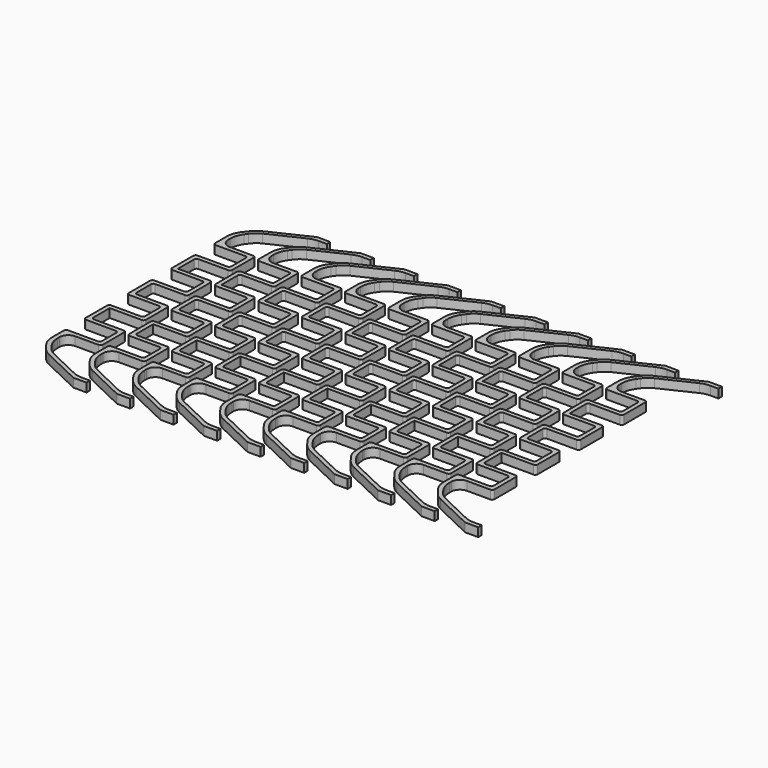
from build123d import *

# Parameters (mm, degrees)
F1_DEPTH = 2.54


with BuildPart() as f1:
    # F0 (on Top) → F1 (new body)
    with BuildSketch(Plane.XY):
        with BuildLine():
            Line((3.81, 44.45), (0, 44.45))
            Line((0, 44.45), (-11.589203, 38.93695))
            ThreePointArc((-11.589203, 38.93695), (-12.840969, 38.150986), (-13.877123, 37.096925))
            Line((-13.877123, 37.096925), (-14.964918, 35.69585))
            ThreePointArc((-14.964918, 35.69585), (-15.956365, 33.85986), (-16.299186, 31.801633))
            Line((-16.299186, 31.801633), (-16.299186, 27.595353))
            ThreePointArc((-16.299186, 27.595353), (-16.102551, 27.120635), (-15.627833, 26.924))
            Line((-15.627833, 26.924), (-6.925678, 26.924))
            ThreePointArc((-6.925678, 26.924), (-6.450959, 26.727365), (-6.254325, 26.252647))
            Line((-6.254325, 26.252647), (-6.254325, 20.991353))
            ThreePointArc((-6.254325, 20.991353), (-6.450959, 20.516635), (-6.925678, 20.32))
            Line((-6.925678, 20.32), (-15.627833, 20.32))
            ThreePointArc((-15.627833, 20.32), (-16.102551, 20.123365), (-16.299186, 19.648647))
            Line((-16.299186, 19.648647), (-16.299186, 11.847353))
            ThreePointArc((-16.299186, 11.847353), (-16.102551, 11.372635), (-15.627833, 11.176))
            Line((-15.627833, 11.176), (-6.925678, 11.176))
            ThreePointArc((-6.925678, 11.176), (-6.450959, 10.979365), (-6.254325, 10.504647))
            Line((-6.254325, 10.504647), (-6.254325, 5.243353))
            ThreePointArc((-6.254325, 5.243353), (-6.450959, 4.768635), (-6.925678, 4.572))
            Line((-6.925678, 4.572), (-15.627833, 4.572))
            ThreePointArc((-15.627833, 4.572), (-16.102551, 4.375365), (-16.299186, 3.900647))
            Line((-16.299186, 3.900647), (-16.299186, 0))
            Line((-16.299186, 0), (-16.299186, -3.900647))
            ThreePointArc((-16.299186, -3.900647), (-16.102551, -4.375365), (-15.627833, -4.572))
            Line((-15.627833, -4.572), (-6.925678, -4.572))
            ThreePointArc((-6.925678, -4.572), (-6.450959, -4.768635), (-6.254325, -5.243353))
            Line((-6.254325, -5.243353), (-6.254325, -10.504647))
            ThreePointArc((-6.254325, -10.504647), (-6.450959, -10.979365), (-6.925678, -11.176))
            Line((-6.925678, -11.176), (-15.627833, -11.176))
            ThreePointArc((-15.627833, -11.176), (-16.102551, -11.372635), (-16.299186, -11.847353))
            Line((-16.299186, -11.847353), (-16.299186, -19.648647))
            ThreePointArc((-16.299186, -19.648647), (-16.102551, -20.123365), (-15.627833, -20.32))
            Line((-15.627833, -20.32), (-6.925678, -20.32))
            ThreePointArc((-6.925678, -20.32), (-6.450959, -20.516635), (-6.254325, -20.991353))
            Line((-6.254325, -20.991353), (-6.254325, -26.252647))
            ThreePointArc((-6.254325, -26.252647), (-6.450959, -26.727365), (-6.925678, -26.924))
            Line((-6.925678, -26.924), (-15.627833, -26.924))
            ThreePointArc((-15.627833, -26.924), (-16.102551, -27.120635), (-16.299186, -27.595353))
            Line((-16.299186, -27.595353), (-16.299186, -31.801633))
            ThreePointArc((-16.299186, -31.801633), (-15.956365, -33.85986), (-14.964918, -35.69585))
            Line((-14.964918, -35.69585), (-13.877123, -37.096925))
            ThreePointArc((-13.877123, -37.096925), (-12.840969, -38.150986), (-11.589203, -38.93695))
            Line((-11.589203, -38.93695), (0, -44.45))
            Line((0, -44.45), (3.81, -44.45))
            Line((3.81, -44.45), (3.81, -43.18))
            Line((3.81, -43.18), (1.433404, -43.18))
            ThreePointArc((1.433404, -43.18), (0.035181, -43.024148), (-1.294408, -42.564243))
            Line((-1.294408, -42.564243), (-10.771085, -38.056134))
            ThreePointArc((-10.771085, -38.056134), (-12.126199, -37.185245), (-13.218574, -36.001396))
            Line((-13.218574, -36.001396), (-13.854487, -35.106971))
            ThreePointArc((-13.854487, -35.106971), (-14.728387, -33.358701), (-15.029186, -31.427466))
            Line((-15.029186, -31.427466), (-15.029186, -30.734))
            ThreePointArc((-15.029186, -30.734), (-14.285237, -28.937949), (-12.489186, -28.194))
            Line((-12.489186, -28.194), (-5.655678, -28.194))
            ThreePointArc((-5.655678, -28.194), (-5.180959, -27.997365), (-4.984325, -27.522647))
            Line((-4.984325, -27.522647), (-4.984325, -19.721353))
            ThreePointArc((-4.984325, -19.721353), (-5.180959, -19.246635), (-5.655678, -19.05))
            Line((-5.655678, -19.05), (-14.357833, -19.05))
            ThreePointArc((-14.357833, -19.05), (-14.832551, -18.853365), (-15.029186, -18.378647))
            Line((-15.029186, -18.378647), (-15.029186, -12.446))
            Line((-15.029186, -12.446), (-5.655678, -12.446))
            ThreePointArc((-5.655678, -12.446), (-5.180959, -12.249365), (-4.984325, -11.774647))
            Line((-4.984325, -11.774647), (-4.984325, -3.973353))
            ThreePointArc((-4.984325, -3.973353), (-5.180959, -3.498635), (-5.655678, -3.302))
            Line((-5.655678, -3.302), (-14.357833, -3.302))
            ThreePointArc((-14.357833, -3.302), (-14.832551, -3.105365), (-15.029186, -2.630647))
            Line((-15.029186, -2.630647), (-15.029186, 0))
            Line((-15.029186, 0), (-15.029186, 2.630647))
            ThreePointArc((-15.029186, 2.630647), (-14.832551, 3.105365), (-14.357833, 3.302))
            Line((-14.357833, 3.302), (-5.655678, 3.302))
            ThreePointArc((-5.655678, 3.302), (-5.180959, 3.498635), (-4.984325, 3.973353))
            Line((-4.984325, 3.973353), (-4.984325, 11.774647))
            ThreePointArc((-4.984325, 11.774647), (-5.180959, 12.249365), (-5.655678, 12.446))
            Line((-5.655678, 12.446), (-15.029186, 12.446))
            Line((-15.029186, 12.446), (-15.029186, 18.378647))
            ThreePointArc((-15.029186, 18.378647), (-14.832551, 18.853365), (-14.357833, 19.05))
            Line((-14.357833, 19.05), (-5.655678, 19.05))
            ThreePointArc((-5.655678, 19.05), (-5.180959, 19.246635), (-4.984325, 19.721353))
            Line((-4.984325, 19.721353), (-4.984325, 27.522647))
            ThreePointArc((-4.984325, 27.522647), (-5.180959, 27.997365), (-5.655678, 28.194))
            Line((-5.655678, 28.194), (-12.489186, 28.194))
            ThreePointArc((-12.489186, 28.194), (-14.285237, 28.937949), (-15.029186, 30.734))
            Line((-15.029186, 30.734), (-15.029186, 31.427466))
            ThreePointArc((-15.029186, 31.427466), (-14.728387, 33.358701), (-13.854487, 35.106971))
            Line((-13.854487, 35.106971), (-13.218574, 36.001396))
            ThreePointArc((-13.218574, 36.001396), (-12.126199, 37.185245), (-10.771085, 38.056134))
            Line((-10.771085, 38.056134), (-1.294408, 42.564243))
            ThreePointArc((-1.294408, 42.564243), (0.035181, 43.024148), (1.433404, 43.18))
            Line((1.433404, 43.18), (3.81, 43.18))
            Line((3.81, 43.18), (3.81, 44.45))
        make_face()
        with BuildLine():
            Line((-2.329186, -18.378647), (-2.329186, -12.446))
            Line((-2.329186, -12.446), (7.044322, -12.446))
            ThreePointArc((7.044322, -12.446), (7.519041, -12.249365), (7.715675, -11.774647))
            Line((7.715675, -11.774647), (7.715675, -3.973353))
            ThreePointArc((7.715675, -3.973353), (7.519041, -3.498635), (7.044322, -3.302))
            Line((7.044322, -3.302), (-1.657833, -3.302))
            ThreePointArc((-1.657833, -3.302), (-2.132551, -3.105365), (-2.329186, -2.630647))
            Line((-2.329186, -2.630647), (-2.329186, 0))
            Line((-2.329186, 0), (-2.329186, 2.630647))
            ThreePointArc((-2.329186, 2.630647), (-2.132551, 3.105365), (-1.657833, 3.302))
            Line((-1.657833, 3.302), (7.044322, 3.302))
            ThreePointArc((7.044322, 3.302), (7.519041, 3.498635), (7.715675, 3.973353))
            Line((7.715675, 3.973353), (7.715675, 11.774647))
            ThreePointArc((7.715675, 11.774647), (7.519041, 12.249365), (7.044322, 12.446))
            Line((7.044322, 12.446), (-2.329186, 12.446))
            Line((-2.329186, 12.446), (-2.329186, 18.378647))
            ThreePointArc((-2.329186, 18.378647), (-2.132551, 18.853365), (-1.657833, 19.05))
            Line((-1.657833, 19.05), (7.044322, 19.05))
            ThreePointArc((7.044322, 19.05), (7.519041, 19.246635), (7.715675, 19.721353))
            Line((7.715675, 19.721353), (7.715675, 27.522647))
            ThreePointArc((7.715675, 27.522647), (7.519041, 27.997365), (7.044322, 28.194))
            Line((7.044322, 28.194), (0.210814, 28.194))
            ThreePointArc((0.210814, 28.194), (-1.585237, 28.937949), (-2.329186, 30.734))
            Line((-2.329186, 30.734), (-2.329186, 31.427466))
            ThreePointArc((-2.329186, 31.427466), (-2.028387, 33.358701), (-1.154487, 35.106971))
            Line((-1.154487, 35.106971), (-0.518574, 36.001396))
            ThreePointArc((-0.518574, 36.001396), (0.573801, 37.185245), (1.928915, 38.056134))
            Line((1.928915, 38.056134), (11.405592, 42.564243))
            ThreePointArc((11.405592, 42.564243), (12.735181, 43.024148), (14.133404, 43.18))
            Line((14.133404, 43.18), (16.51, 43.18))
            Line((16.51, 43.18), (16.51, 44.45))
            Line((16.51, 44.45), (12.7, 44.45))
            Line((12.7, 44.45), (1.110797, 38.93695))
            ThreePointArc((1.110797, 38.93695), (-0.140969, 38.150986), (-1.177123, 37.096925))
            Line((-1.177123, 37.096925), (-2.264918, 35.69585))
            ThreePointArc((-2.264918, 35.69585), (-3.256365, 33.85986), (-3.599186, 31.801633))
            Line((-3.599186, 31.801633), (-3.599186, 27.595353))
            ThreePointArc((-3.599186, 27.595353), (-3.402551, 27.120635), (-2.927833, 26.924))
            Line((-2.927833, 26.924), (5.774322, 26.924))
            ThreePointArc((5.774322, 26.924), (6.249041, 26.727365), (6.445675, 26.252647))
            Line((6.445675, 26.252647), (6.445675, 20.991353))
            ThreePointArc((6.445675, 20.991353), (6.249041, 20.516635), (5.774322, 20.32))
            Line((5.774322, 20.32), (-2.927833, 20.32))
            ThreePointArc((-2.927833, 20.32), (-3.402551, 20.123365), (-3.599186, 19.648647))
            Line((-3.599186, 19.648647), (-3.599186, 11.847353))
            ThreePointArc((-3.599186, 11.847353), (-3.402551, 11.372635), (-2.927833, 11.176))
            Line((-2.927833, 11.176), (5.774322, 11.176))
            ThreePointArc((5.774322, 11.176), (6.249041, 10.979365), (6.445675, 10.504647))
            Line((6.445675, 10.504647), (6.445675, 5.243353))
            ThreePointArc((6.445675, 5.243353), (6.249041, 4.768635), (5.774322, 4.572))
            Line((5.774322, 4.572), (-2.927833, 4.572))
            ThreePointArc((-2.927833, 4.572), (-3.402551, 4.375365), (-3.599186, 3.900647))
            Line((-3.599186, 3.900647), (-3.599186, 0))
            Line((-3.599186, 0), (-3.599186, -3.900647))
            ThreePointArc((-3.599186, -3.900647), (-3.402551, -4.375365), (-2.927833, -4.572))
            Line((-2.927833, -4.572), (5.774322, -4.572))
            ThreePointArc((5.774322, -4.572), (6.249041, -4.768635), (6.445675, -5.243353))
            Line((6.445675, -5.243353), (6.445675, -10.504647))
            ThreePointArc((6.445675, -10.504647), (6.249041, -10.979365), (5.774322, -11.176))
            Line((5.774322, -11.176), (-2.927833, -11.176))
            ThreePointArc((-2.927833, -11.176), (-3.402551, -11.372635), (-3.599186, -11.847353))
            Line((-3.599186, -11.847353), (-3.599186, -19.648647))
            ThreePointArc((-3.599186, -19.648647), (-3.402551, -20.123365), (-2.927833, -20.32))
            Line((-2.927833, -20.32), (5.774322, -20.32))
            ThreePointArc((5.774322, -20.32), (6.249041, -20.516635), (6.445675, -20.991353))
            Line((6.445675, -20.991353), (6.445675, -26.252647))
            ThreePointArc((6.445675, -26.252647), (6.249041, -26.727365), (5.774322, -26.924))
            Line((5.774322, -26.924), (-2.927833, -26.924))
            ThreePointArc((-2.927833, -26.924), (-3.402551, -27.120635), (-3.599186, -27.595353))
            Line((-3.599186, -27.595353), (-3.599186, -31.801633))
            ThreePointArc((-3.599186, -31.801633), (-3.256365, -33.85986), (-2.264918, -35.69585))
            Line((-2.264918, -35.69585), (-1.177123, -37.096925))
            ThreePointArc((-1.177123, -37.096925), (-0.140969, -38.150986), (1.110797, -38.93695))
            Line((1.110797, -38.93695), (12.7, -44.45))
            Line((12.7, -44.45), (16.51, -44.45))
            Line((16.51, -44.45), (16.51, -43.18))
            Line((16.51, -43.18), (14.133404, -43.18))
            ThreePointArc((14.133404, -43.18), (12.735181, -43.024148), (11.405592, -42.564243))
            Line((11.405592, -42.564243), (1.928915, -38.056134))
            ThreePointArc((1.928915, -38.056134), (0.573801, -37.185245), (-0.518574, -36.001396))
            Line((-0.518574, -36.001396), (-1.154487, -35.106971))
            ThreePointArc((-1.154487, -35.106971), (-2.028387, -33.358701), (-2.329186, -31.427466))
            Line((-2.329186, -31.427466), (-2.329186, -30.734))
            ThreePointArc((-2.329186, -30.734), (-1.585237, -28.937949), (0.210814, -28.194))
            Line((0.210814, -28.194), (7.044322, -28.194))
            ThreePointArc((7.044322, -28.194), (7.519041, -27.997365), (7.715675, -27.522647))
            Line((7.715675, -27.522647), (7.715675, -19.721353))
            ThreePointArc((7.715675, -19.721353), (7.519041, -19.246635), (7.044322, -19.05))
            Line((7.044322, -19.05), (-1.657833, -19.05))
            ThreePointArc((-1.657833, -19.05), (-2.132551, -18.853365), (-2.329186, -18.378647))
        make_face()
        with BuildLine():
            Line((10.370814, -18.378647), (10.370814, -12.446))
            Line((10.370814, -12.446), (19.744322, -12.446))
            ThreePointArc((19.744322, -12.446), (20.219041, -12.249365), (20.415675, -11.774647))
            Line((20.415675, -11.774647), (20.415675, -3.973353))
            ThreePointArc((20.415675, -3.973353), (20.219041, -3.498635), (19.744322, -3.302))
            Line((19.744322, -3.302), (11.042167, -3.302))
            ThreePointArc((11.042167, -3.302), (10.567449, -3.105365), (10.370814, -2.630647))
            Line((10.370814, -2.630647), (10.370814, 0))
            Line((10.370814, 0), (10.370814, 2.630647))
            ThreePointArc((10.370814, 2.630647), (10.567449, 3.105365), (11.042167, 3.302))
            Line((11.042167, 3.302), (19.744322, 3.302))
            ThreePointArc((19.744322, 3.302), (20.219041, 3.498635), (20.415675, 3.973353))
            Line((20.415675, 3.973353), (20.415675, 11.774647))
            ThreePointArc((20.415675, 11.774647), (20.219041, 12.249365), (19.744322, 12.446))
            Line((19.744322, 12.446), (10.370814, 12.446))
            Line((10.370814, 12.446), (10.370814, 18.378647))
            ThreePointArc((10.370814, 18.378647), (10.567449, 18.853365), (11.042167, 19.05))
            Line((11.042167, 19.05), (19.744322, 19.05))
            ThreePointArc((19.744322, 19.05), (20.219041, 19.246635), (20.415675, 19.721353))
            Line((20.415675, 19.721353), (20.415675, 27.522647))
            ThreePointArc((20.415675, 27.522647), (20.219041, 27.997365), (19.744322, 28.194))
            Line((19.744322, 28.194), (12.910814, 28.194))
            ThreePointArc((12.910814, 28.194), (11.114763, 28.937949), (10.370814, 30.734))
            Line((10.370814, 30.734), (10.370814, 31.427466))
            ThreePointArc((10.370814, 31.427466), (10.671613, 33.358701), (11.545513, 35.106971))
            Line((11.545513, 35.106971), (12.181426, 36.001396))
            ThreePointArc((12.181426, 36.001396), (13.273801, 37.185245), (14.628915, 38.056134))
            Line((14.628915, 38.056134), (24.105592, 42.564243))
            ThreePointArc((24.105592, 42.564243), (25.435181, 43.024148), (26.833404, 43.18))
            Line((26.833404, 43.18), (29.21, 43.18))
            Line((29.21, 43.18), (29.21, 44.45))
            Line((29.21, 44.45), (25.4, 44.45))
            Line((25.4, 44.45), (13.810797, 38.93695))
            ThreePointArc((13.810797, 38.93695), (12.559031, 38.150986), (11.522877, 37.096925))
            Line((11.522877, 37.096925), (10.435082, 35.69585))
            ThreePointArc((10.435082, 35.69585), (9.443635, 33.85986), (9.100814, 31.801633))
            Line((9.100814, 31.801633), (9.100814, 27.595353))
            ThreePointArc((9.100814, 27.595353), (9.297449, 27.120635), (9.772167, 26.924))
            Line((9.772167, 26.924), (18.474322, 26.924))
            ThreePointArc((18.474322, 26.924), (18.949041, 26.727365), (19.145675, 26.252647))
            Line((19.145675, 26.252647), (19.145675, 20.991353))
            ThreePointArc((19.145675, 20.991353), (18.949041, 20.516635), (18.474322, 20.32))
            Line((18.474322, 20.32), (9.772167, 20.32))
            ThreePointArc((9.772167, 20.32), (9.297449, 20.123365), (9.100814, 19.648647))
            Line((9.100814, 19.648647), (9.100814, 11.847353))
            ThreePointArc((9.100814, 11.847353), (9.297449, 11.372635), (9.772167, 11.176))
            Line((9.772167, 11.176), (18.474322, 11.176))
            ThreePointArc((18.474322, 11.176), (18.949041, 10.979365), (19.145675, 10.504647))
            Line((19.145675, 10.504647), (19.145675, 5.243353))
            ThreePointArc((19.145675, 5.243353), (18.949041, 4.768635), (18.474322, 4.572))
            Line((18.474322, 4.572), (9.772167, 4.572))
            ThreePointArc((9.772167, 4.572), (9.297449, 4.375365), (9.100814, 3.900647))
            Line((9.100814, 3.900647), (9.100814, 0))
            Line((9.100814, 0), (9.100814, -3.900647))
            ThreePointArc((9.100814, -3.900647), (9.297449, -4.375365), (9.772167, -4.572))
            Line((9.772167, -4.572), (18.474322, -4.572))
            ThreePointArc((18.474322, -4.572), (18.949041, -4.768635), (19.145675, -5.243353))
            Line((19.145675, -5.243353), (19.145675, -10.504647))
            ThreePointArc((19.145675, -10.504647), (18.949041, -10.979365), (18.474322, -11.176))
            Line((18.474322, -11.176), (9.772167, -11.176))
            ThreePointArc((9.772167, -11.176), (9.297449, -11.372635), (9.100814, -11.847353))
            Line((9.100814, -11.847353), (9.100814, -19.648647))
            ThreePointArc((9.100814, -19.648647), (9.297449, -20.123365), (9.772167, -20.32))
            Line((9.772167, -20.32), (18.474322, -20.32))
            ThreePointArc((18.474322, -20.32), (18.949041, -20.516635), (19.145675, -20.991353))
            Line((19.145675, -20.991353), (19.145675, -26.252647))
            ThreePointArc((19.145675, -26.252647), (18.949041, -26.727365), (18.474322, -26.924))
            Line((18.474322, -26.924), (9.772167, -26.924))
            ThreePointArc((9.772167, -26.924), (9.297449, -27.120635), (9.100814, -27.595353))
            Line((9.100814, -27.595353), (9.100814, -31.801633))
            ThreePointArc((9.100814, -31.801633), (9.443635, -33.85986), (10.435082, -35.69585))
            Line((10.435082, -35.69585), (11.522877, -37.096925))
            ThreePointArc((11.522877, -37.096925), (12.559031, -38.150986), (13.810797, -38.93695))
            Line((13.810797, -38.93695), (25.4, -44.45))
            Line((25.4, -44.45), (29.21, -44.45))
            Line((29.21, -44.45), (29.21, -43.18))
            Line((29.21, -43.18), (26.833404, -43.18))
            ThreePointArc((26.833404, -43.18), (25.435181, -43.024148), (24.105592, -42.564243))
            Line((24.105592, -42.564243), (14.628915, -38.056134))
            ThreePointArc((14.628915, -38.056134), (13.273801, -37.185245), (12.181426, -36.001396))
            Line((12.181426, -36.001396), (11.545513, -35.106971))
            ThreePointArc((11.545513, -35.106971), (10.671613, -33.358701), (10.370814, -31.427466))
            Line((10.370814, -31.427466), (10.370814, -30.734))
            ThreePointArc((10.370814, -30.734), (11.114763, -28.937949), (12.910814, -28.194))
            Line((12.910814, -28.194), (19.744322, -28.194))
            ThreePointArc((19.744322, -28.194), (20.219041, -27.997365), (20.415675, -27.522647))
            Line((20.415675, -27.522647), (20.415675, -19.721353))
            ThreePointArc((20.415675, -19.721353), (20.219041, -19.246635), (19.744322, -19.05))
            Line((19.744322, -19.05), (11.042167, -19.05))
            ThreePointArc((11.042167, -19.05), (10.567449, -18.853365), (10.370814, -18.378647))
        make_face()
        with BuildLine():
            Line((23.070814, -18.378647), (23.070814, -12.446))
            Line((23.070814, -12.446), (32.444322, -12.446))
            ThreePointArc((32.444322, -12.446), (32.919041, -12.249365), (33.115675, -11.774647))
            Line((33.115675, -11.774647), (33.115675, -3.973353))
            ThreePointArc((33.115675, -3.973353), (32.919041, -3.498635), (32.444322, -3.302))
            Line((32.444322, -3.302), (23.742167, -3.302))
            ThreePointArc((23.742167, -3.302), (23.267449, -3.105365), (23.070814, -2.630647))
            Line((23.070814, -2.630647), (23.070814, 0))
            Line((23.070814, 0), (23.070814, 2.630647))
            ThreePointArc((23.070814, 2.630647), (23.267449, 3.105365), (23.742167, 3.302))
            Line((23.742167, 3.302), (32.444322, 3.302))
            ThreePointArc((32.444322, 3.302), (32.919041, 3.498635), (33.115675, 3.973353))
            Line((33.115675, 3.973353), (33.115675, 11.774647))
            ThreePointArc((33.115675, 11.774647), (32.919041, 12.249365), (32.444322, 12.446))
            Line((32.444322, 12.446), (23.070814, 12.446))
            Line((23.070814, 12.446), (23.070814, 18.378647))
            ThreePointArc((23.070814, 18.378647), (23.267449, 18.853365), (23.742167, 19.05))
            Line((23.742167, 19.05), (32.444322, 19.05))
            ThreePointArc((32.444322, 19.05), (32.919041, 19.246635), (33.115675, 19.721353))
            Line((33.115675, 19.721353), (33.115675, 27.522647))
            ThreePointArc((33.115675, 27.522647), (32.919041, 27.997365), (32.444322, 28.194))
            Line((32.444322, 28.194), (25.610814, 28.194))
            ThreePointArc((25.610814, 28.194), (23.814763, 28.937949), (23.070814, 30.734))
            Line((23.070814, 30.734), (23.070814, 31.427466))
            ThreePointArc((23.070814, 31.427466), (23.371613, 33.358701), (24.245513, 35.106971))
            Line((24.245513, 35.106971), (24.881426, 36.001396))
            ThreePointArc((24.881426, 36.001396), (25.973801, 37.185245), (27.328915, 38.056134))
            Line((27.328915, 38.056134), (36.805592, 42.564243))
            ThreePointArc((36.805592, 42.564243), (38.135181, 43.024148), (39.533404, 43.18))
            Line((39.533404, 43.18), (41.91, 43.18))
            Line((41.91, 43.18), (41.91, 44.45))
            Line((41.91, 44.45), (38.1, 44.45))
            Line((38.1, 44.45), (26.510797, 38.93695))
            ThreePointArc((26.510797, 38.93695), (25.259031, 38.150986), (24.222877, 37.096925))
            Line((24.222877, 37.096925), (23.135082, 35.69585))
            ThreePointArc((23.135082, 35.69585), (22.143635, 33.85986), (21.800814, 31.801633))
            Line((21.800814, 31.801633), (21.800814, 27.595353))
            ThreePointArc((21.800814, 27.595353), (21.997449, 27.120635), (22.472167, 26.924))
            Line((22.472167, 26.924), (31.174322, 26.924))
            ThreePointArc((31.174322, 26.924), (31.649041, 26.727365), (31.845675, 26.252647))
            Line((31.845675, 26.252647), (31.845675, 20.991353))
            ThreePointArc((31.845675, 20.991353), (31.649041, 20.516635), (31.174322, 20.32))
            Line((31.174322, 20.32), (22.472167, 20.32))
            ThreePointArc((22.472167, 20.32), (21.997449, 20.123365), (21.800814, 19.648647))
            Line((21.800814, 19.648647), (21.800814, 11.847353))
            ThreePointArc((21.800814, 11.847353), (21.997449, 11.372635), (22.472167, 11.176))
            Line((22.472167, 11.176), (31.174322, 11.176))
            ThreePointArc((31.174322, 11.176), (31.649041, 10.979365), (31.845675, 10.504647))
            Line((31.845675, 10.504647), (31.845675, 5.243353))
            ThreePointArc((31.845675, 5.243353), (31.649041, 4.768635), (31.174322, 4.572))
            Line((31.174322, 4.572), (22.472167, 4.572))
            ThreePointArc((22.472167, 4.572), (21.997449, 4.375365), (21.800814, 3.900647))
            Line((21.800814, 3.900647), (21.800814, 0))
            Line((21.800814, 0), (21.800814, -3.900647))
            ThreePointArc((21.800814, -3.900647), (21.997449, -4.375365), (22.472167, -4.572))
            Line((22.472167, -4.572), (31.174322, -4.572))
            ThreePointArc((31.174322, -4.572), (31.649041, -4.768635), (31.845675, -5.243353))
            Line((31.845675, -5.243353), (31.845675, -10.504647))
            ThreePointArc((31.845675, -10.504647), (31.649041, -10.979365), (31.174322, -11.176))
            Line((31.174322, -11.176), (22.472167, -11.176))
            ThreePointArc((22.472167, -11.176), (21.997449, -11.372635), (21.800814, -11.847353))
            Line((21.800814, -11.847353), (21.800814, -19.648647))
            ThreePointArc((21.800814, -19.648647), (21.997449, -20.123365), (22.472167, -20.32))
            Line((22.472167, -20.32), (31.174322, -20.32))
            ThreePointArc((31.174322, -20.32), (31.649041, -20.516635), (31.845675, -20.991353))
            Line((31.845675, -20.991353), (31.845675, -26.252647))
            ThreePointArc((31.845675, -26.252647), (31.649041, -26.727365), (31.174322, -26.924))
            Line((31.174322, -26.924), (22.472167, -26.924))
            ThreePointArc((22.472167, -26.924), (21.997449, -27.120635), (21.800814, -27.595353))
            Line((21.800814, -27.595353), (21.800814, -31.801633))
            ThreePointArc((21.800814, -31.801633), (22.143635, -33.85986), (23.135082, -35.69585))
            Line((23.135082, -35.69585), (24.222877, -37.096925))
            ThreePointArc((24.222877, -37.096925), (25.259031, -38.150986), (26.510797, -38.93695))
            Line((26.510797, -38.93695), (38.1, -44.45))
            Line((38.1, -44.45), (41.91, -44.45))
            Line((41.91, -44.45), (41.91, -43.18))
            Line((41.91, -43.18), (39.533404, -43.18))
            ThreePointArc((39.533404, -43.18), (38.135181, -43.024148), (36.805592, -42.564243))
            Line((36.805592, -42.564243), (27.328915, -38.056134))
            ThreePointArc((27.328915, -38.056134), (25.973801, -37.185245), (24.881426, -36.001396))
            Line((24.881426, -36.001396), (24.245513, -35.106971))
            ThreePointArc((24.245513, -35.106971), (23.371613, -33.358701), (23.070814, -31.427466))
            Line((23.070814, -31.427466), (23.070814, -30.734))
            ThreePointArc((23.070814, -30.734), (23.814763, -28.937949), (25.610814, -28.194))
            Line((25.610814, -28.194), (32.444322, -28.194))
            ThreePointArc((32.444322, -28.194), (32.919041, -27.997365), (33.115675, -27.522647))
            Line((33.115675, -27.522647), (33.115675, -19.721353))
            ThreePointArc((33.115675, -19.721353), (32.919041, -19.246635), (32.444322, -19.05))
            Line((32.444322, -19.05), (23.742167, -19.05))
            ThreePointArc((23.742167, -19.05), (23.267449, -18.853365), (23.070814, -18.378647))
        make_face()
        with BuildLine():
            Line((35.770814, -18.378647), (35.770814, -12.446))
            Line((35.770814, -12.446), (45.144322, -12.446))
            ThreePointArc((45.144322, -12.446), (45.619041, -12.249365), (45.815675, -11.774647))
            Line((45.815675, -11.774647), (45.815675, -3.973353))
            ThreePointArc((45.815675, -3.973353), (45.619041, -3.498635), (45.144322, -3.302))
            Line((45.144322, -3.302), (36.442167, -3.302))
            ThreePointArc((36.442167, -3.302), (35.967449, -3.105365), (35.770814, -2.630647))
            Line((35.770814, -2.630647), (35.770814, 0))
            Line((35.770814, 0), (35.770814, 2.630647))
            ThreePointArc((35.770814, 2.630647), (35.967449, 3.105365), (36.442167, 3.302))
            Line((36.442167, 3.302), (45.144322, 3.302))
            ThreePointArc((45.144322, 3.302), (45.619041, 3.498635), (45.815675, 3.973353))
            Line((45.815675, 3.973353), (45.815675, 11.774647))
            ThreePointArc((45.815675, 11.774647), (45.619041, 12.249365), (45.144322, 12.446))
            Line((45.144322, 12.446), (35.770814, 12.446))
            Line((35.770814, 12.446), (35.770814, 18.378647))
            ThreePointArc((35.770814, 18.378647), (35.967449, 18.853365), (36.442167, 19.05))
            Line((36.442167, 19.05), (45.144322, 19.05))
            ThreePointArc((45.144322, 19.05), (45.619041, 19.246635), (45.815675, 19.721353))
            Line((45.815675, 19.721353), (45.815675, 27.522647))
            ThreePointArc((45.815675, 27.522647), (45.619041, 27.997365), (45.144322, 28.194))
            Line((45.144322, 28.194), (38.310814, 28.194))
            ThreePointArc((38.310814, 28.194), (36.514763, 28.937949), (35.770814, 30.734))
            Line((35.770814, 30.734), (35.770814, 31.427466))
            ThreePointArc((35.770814, 31.427466), (36.071613, 33.358701), (36.945513, 35.106971))
            Line((36.945513, 35.106971), (37.581426, 36.001396))
            ThreePointArc((37.581426, 36.001396), (38.673801, 37.185245), (40.028915, 38.056134))
            Line((40.028915, 38.056134), (49.505592, 42.564243))
            ThreePointArc((49.505592, 42.564243), (50.835181, 43.024148), (52.233404, 43.18))
            Line((52.233404, 43.18), (54.61, 43.18))
            Line((54.61, 43.18), (54.61, 44.45))
            Line((54.61, 44.45), (50.8, 44.45))
            Line((50.8, 44.45), (39.210797, 38.93695))
            ThreePointArc((39.210797, 38.93695), (37.959031, 38.150986), (36.922877, 37.096925))
            Line((36.922877, 37.096925), (35.835082, 35.69585))
            ThreePointArc((35.835082, 35.69585), (34.843635, 33.85986), (34.500814, 31.801633))
            Line((34.500814, 31.801633), (34.500814, 27.595353))
            ThreePointArc((34.500814, 27.595353), (34.697449, 27.120635), (35.172167, 26.924))
            Line((35.172167, 26.924), (43.874322, 26.924))
            ThreePointArc((43.874322, 26.924), (44.349041, 26.727365), (44.545675, 26.252647))
            Line((44.545675, 26.252647), (44.545675, 20.991353))
            ThreePointArc((44.545675, 20.991353), (44.349041, 20.516635), (43.874322, 20.32))
            Line((43.874322, 20.32), (35.172167, 20.32))
            ThreePointArc((35.172167, 20.32), (34.697449, 20.123365), (34.500814, 19.648647))
            Line((34.500814, 19.648647), (34.500814, 11.847353))
            ThreePointArc((34.500814, 11.847353), (34.697449, 11.372635), (35.172167, 11.176))
            Line((35.172167, 11.176), (43.874322, 11.176))
            ThreePointArc((43.874322, 11.176), (44.349041, 10.979365), (44.545675, 10.504647))
            Line((44.545675, 10.504647), (44.545675, 5.243353))
            ThreePointArc((44.545675, 5.243353), (44.349041, 4.768635), (43.874322, 4.572))
            Line((43.874322, 4.572), (35.172167, 4.572))
            ThreePointArc((35.172167, 4.572), (34.697449, 4.375365), (34.500814, 3.900647))
            Line((34.500814, 3.900647), (34.500814, 0))
            Line((34.500814, 0), (34.500814, -3.900647))
            ThreePointArc((34.500814, -3.900647), (34.697449, -4.375365), (35.172167, -4.572))
            Line((35.172167, -4.572), (43.874322, -4.572))
            ThreePointArc((43.874322, -4.572), (44.349041, -4.768635), (44.545675, -5.243353))
            Line((44.545675, -5.243353), (44.545675, -10.504647))
            ThreePointArc((44.545675, -10.504647), (44.349041, -10.979365), (43.874322, -11.176))
            Line((43.874322, -11.176), (35.172167, -11.176))
            ThreePointArc((35.172167, -11.176), (34.697449, -11.372635), (34.500814, -11.847353))
            Line((34.500814, -11.847353), (34.500814, -19.648647))
            ThreePointArc((34.500814, -19.648647), (34.697449, -20.123365), (35.172167, -20.32))
            Line((35.172167, -20.32), (43.874322, -20.32))
            ThreePointArc((43.874322, -20.32), (44.349041, -20.516635), (44.545675, -20.991353))
            Line((44.545675, -20.991353), (44.545675, -26.252647))
            ThreePointArc((44.545675, -26.252647), (44.349041, -26.727365), (43.874322, -26.924))
            Line((43.874322, -26.924), (35.172167, -26.924))
            ThreePointArc((35.172167, -26.924), (34.697449, -27.120635), (34.500814, -27.595353))
            Line((34.500814, -27.595353), (34.500814, -31.801633))
            ThreePointArc((34.500814, -31.801633), (34.843635, -33.85986), (35.835082, -35.69585))
            Line((35.835082, -35.69585), (36.922877, -37.096925))
            ThreePointArc((36.922877, -37.096925), (37.959031, -38.150986), (39.210797, -38.93695))
            Line((39.210797, -38.93695), (50.8, -44.45))
            Line((50.8, -44.45), (54.61, -44.45))
            Line((54.61, -44.45), (54.61, -43.18))
            Line((54.61, -43.18), (52.233404, -43.18))
            ThreePointArc((52.233404, -43.18), (50.835181, -43.024148), (49.505592, -42.564243))
            Line((49.505592, -42.564243), (40.028915, -38.056134))
            ThreePointArc((40.028915, -38.056134), (38.673801, -37.185245), (37.581426, -36.001396))
            Line((37.581426, -36.001396), (36.945513, -35.106971))
            ThreePointArc((36.945513, -35.106971), (36.071613, -33.358701), (35.770814, -31.427466))
            Line((35.770814, -31.427466), (35.770814, -30.734))
            ThreePointArc((35.770814, -30.734), (36.514763, -28.937949), (38.310814, -28.194))
            Line((38.310814, -28.194), (45.144322, -28.194))
            ThreePointArc((45.144322, -28.194), (45.619041, -27.997365), (45.815675, -27.522647))
            Line((45.815675, -27.522647), (45.815675, -19.721353))
            ThreePointArc((45.815675, -19.721353), (45.619041, -19.246635), (45.144322, -19.05))
            Line((45.144322, -19.05), (36.442167, -19.05))
            ThreePointArc((36.442167, -19.05), (35.967449, -18.853365), (35.770814, -18.378647))
        make_face()
        with BuildLine():
            Line((48.470814, -18.378647), (48.470814, -12.446))
            Line((48.470814, -12.446), (57.844322, -12.446))
            ThreePointArc((57.844322, -12.446), (58.319041, -12.249365), (58.515675, -11.774647))
            Line((58.515675, -11.774647), (58.515675, -3.973353))
            ThreePointArc((58.515675, -3.973353), (58.319041, -3.498635), (57.844322, -3.302))
            Line((57.844322, -3.302), (49.142167, -3.302))
            ThreePointArc((49.142167, -3.302), (48.667449, -3.105365), (48.470814, -2.630647))
            Line((48.470814, -2.630647), (48.470814, 0))
            Line((48.470814, 0), (48.470814, 2.630647))
            ThreePointArc((48.470814, 2.630647), (48.667449, 3.105365), (49.142167, 3.302))
            Line((49.142167, 3.302), (57.844322, 3.302))
            ThreePointArc((57.844322, 3.302), (58.319041, 3.498635), (58.515675, 3.973353))
            Line((58.515675, 3.973353), (58.515675, 11.774647))
            ThreePointArc((58.515675, 11.774647), (58.319041, 12.249365), (57.844322, 12.446))
            Line((57.844322, 12.446), (48.470814, 12.446))
            Line((48.470814, 12.446), (48.470814, 18.378647))
            ThreePointArc((48.470814, 18.378647), (48.667449, 18.853365), (49.142167, 19.05))
            Line((49.142167, 19.05), (57.844322, 19.05))
            ThreePointArc((57.844322, 19.05), (58.319041, 19.246635), (58.515675, 19.721353))
            Line((58.515675, 19.721353), (58.515675, 27.522647))
            ThreePointArc((58.515675, 27.522647), (58.319041, 27.997365), (57.844322, 28.194))
            Line((57.844322, 28.194), (51.010814, 28.194))
            ThreePointArc((51.010814, 28.194), (49.214763, 28.937949), (48.470814, 30.734))
            Line((48.470814, 30.734), (48.470814, 31.427466))
            ThreePointArc((48.470814, 31.427466), (48.771613, 33.358701), (49.645513, 35.106971))
            Line((49.645513, 35.106971), (50.281426, 36.001396))
            ThreePointArc((50.281426, 36.001396), (51.373801, 37.185245), (52.728915, 38.056134))
            Line((52.728915, 38.056134), (62.205592, 42.564243))
            ThreePointArc((62.205592, 42.564243), (63.535181, 43.024148), (64.933404, 43.18))
            Line((64.933404, 43.18), (67.31, 43.18))
            Line((67.31, 43.18), (67.31, 44.45))
            Line((67.31, 44.45), (63.5, 44.45))
            Line((63.5, 44.45), (51.910797, 38.93695))
            ThreePointArc((51.910797, 38.93695), (50.659031, 38.150986), (49.622877, 37.096925))
            Line((49.622877, 37.096925), (48.535082, 35.69585))
            ThreePointArc((48.535082, 35.69585), (47.543635, 33.85986), (47.200814, 31.801633))
            Line((47.200814, 31.801633), (47.200814, 27.595353))
            ThreePointArc((47.200814, 27.595353), (47.397449, 27.120635), (47.872167, 26.924))
            Line((47.872167, 26.924), (56.574322, 26.924))
            ThreePointArc((56.574322, 26.924), (57.049041, 26.727365), (57.245675, 26.252647))
            Line((57.245675, 26.252647), (57.245675, 20.991353))
            ThreePointArc((57.245675, 20.991353), (57.049041, 20.516635), (56.574322, 20.32))
            Line((56.574322, 20.32), (47.872167, 20.32))
            ThreePointArc((47.872167, 20.32), (47.397449, 20.123365), (47.200814, 19.648647))
            Line((47.200814, 19.648647), (47.200814, 11.847353))
            ThreePointArc((47.200814, 11.847353), (47.397449, 11.372635), (47.872167, 11.176))
            Line((47.872167, 11.176), (56.574322, 11.176))
            ThreePointArc((56.574322, 11.176), (57.049041, 10.979365), (57.245675, 10.504647))
            Line((57.245675, 10.504647), (57.245675, 5.243353))
            ThreePointArc((57.245675, 5.243353), (57.049041, 4.768635), (56.574322, 4.572))
            Line((56.574322, 4.572), (47.872167, 4.572))
            ThreePointArc((47.872167, 4.572), (47.397449, 4.375365), (47.200814, 3.900647))
            Line((47.200814, 3.900647), (47.200814, 0))
            Line((47.200814, 0), (47.200814, -3.900647))
            ThreePointArc((47.200814, -3.900647), (47.397449, -4.375365), (47.872167, -4.572))
            Line((47.872167, -4.572), (56.574322, -4.572))
            ThreePointArc((56.574322, -4.572), (57.049041, -4.768635), (57.245675, -5.243353))
            Line((57.245675, -5.243353), (57.245675, -10.504647))
            ThreePointArc((57.245675, -10.504647), (57.049041, -10.979365), (56.574322, -11.176))
            Line((56.574322, -11.176), (47.872167, -11.176))
            ThreePointArc((47.872167, -11.176), (47.397449, -11.372635), (47.200814, -11.847353))
            Line((47.200814, -11.847353), (47.200814, -19.648647))
            ThreePointArc((47.200814, -19.648647), (47.397449, -20.123365), (47.872167, -20.32))
            Line((47.872167, -20.32), (56.574322, -20.32))
            ThreePointArc((56.574322, -20.32), (57.049041, -20.516635), (57.245675, -20.991353))
            Line((57.245675, -20.991353), (57.245675, -26.252647))
            ThreePointArc((57.245675, -26.252647), (57.049041, -26.727365), (56.574322, -26.924))
            Line((56.574322, -26.924), (47.872167, -26.924))
            ThreePointArc((47.872167, -26.924), (47.397449, -27.120635), (47.200814, -27.595353))
            Line((47.200814, -27.595353), (47.200814, -31.801633))
            ThreePointArc((47.200814, -31.801633), (47.543635, -33.85986), (48.535082, -35.69585))
            Line((48.535082, -35.69585), (49.622877, -37.096925))
            ThreePointArc((49.622877, -37.096925), (50.659031, -38.150986), (51.910797, -38.93695))
            Line((51.910797, -38.93695), (63.5, -44.45))
            Line((63.5, -44.45), (67.31, -44.45))
            Line((67.31, -44.45), (67.31, -43.18))
            Line((67.31, -43.18), (64.933404, -43.18))
            ThreePointArc((64.933404, -43.18), (63.535181, -43.024148), (62.205592, -42.564243))
            Line((62.205592, -42.564243), (52.728915, -38.056134))
            ThreePointArc((52.728915, -38.056134), (51.373801, -37.185245), (50.281426, -36.001396))
            Line((50.281426, -36.001396), (49.645513, -35.106971))
            ThreePointArc((49.645513, -35.106971), (48.771613, -33.358701), (48.470814, -31.427466))
            Line((48.470814, -31.427466), (48.470814, -30.734))
            ThreePointArc((48.470814, -30.734), (49.214763, -28.937949), (51.010814, -28.194))
            Line((51.010814, -28.194), (57.844322, -28.194))
            ThreePointArc((57.844322, -28.194), (58.319041, -27.997365), (58.515675, -27.522647))
            Line((58.515675, -27.522647), (58.515675, -19.721353))
            ThreePointArc((58.515675, -19.721353), (58.319041, -19.246635), (57.844322, -19.05))
            Line((57.844322, -19.05), (49.142167, -19.05))
            ThreePointArc((49.142167, -19.05), (48.667449, -18.853365), (48.470814, -18.378647))
        make_face()
        with BuildLine():
            Line((61.170814, -18.378647), (61.170814, -12.446))
            Line((61.170814, -12.446), (70.544322, -12.446))
            ThreePointArc((70.544322, -12.446), (71.019041, -12.249365), (71.215675, -11.774647))
            Line((71.215675, -11.774647), (71.215675, -3.973353))
            ThreePointArc((71.215675, -3.973353), (71.019041, -3.498635), (70.544322, -3.302))
            Line((70.544322, -3.302), (61.842167, -3.302))
            ThreePointArc((61.842167, -3.302), (61.367449, -3.105365), (61.170814, -2.630647))
            Line((61.170814, -2.630647), (61.170814, 0))
            Line((61.170814, 0), (61.170814, 2.630647))
            ThreePointArc((61.170814, 2.630647), (61.367449, 3.105365), (61.842167, 3.302))
            Line((61.842167, 3.302), (70.544322, 3.302))
            ThreePointArc((70.544322, 3.302), (71.019041, 3.498635), (71.215675, 3.973353))
            Line((71.215675, 3.973353), (71.215675, 11.774647))
            ThreePointArc((71.215675, 11.774647), (71.019041, 12.249365), (70.544322, 12.446))
            Line((70.544322, 12.446), (61.170814, 12.446))
            Line((61.170814, 12.446), (61.170814, 18.378647))
            ThreePointArc((61.170814, 18.378647), (61.367449, 18.853365), (61.842167, 19.05))
            Line((61.842167, 19.05), (70.544322, 19.05))
            ThreePointArc((70.544322, 19.05), (71.019041, 19.246635), (71.215675, 19.721353))
            Line((71.215675, 19.721353), (71.215675, 27.522647))
            ThreePointArc((71.215675, 27.522647), (71.019041, 27.997365), (70.544322, 28.194))
            Line((70.544322, 28.194), (63.710814, 28.194))
            ThreePointArc((63.710814, 28.194), (61.914763, 28.937949), (61.170814, 30.734))
            Line((61.170814, 30.734), (61.170814, 31.427466))
            ThreePointArc((61.170814, 31.427466), (61.471613, 33.358701), (62.345513, 35.106971))
            Line((62.345513, 35.106971), (62.981426, 36.001396))
            ThreePointArc((62.981426, 36.001396), (64.073801, 37.185245), (65.428915, 38.056134))
            Line((65.428915, 38.056134), (74.905592, 42.564243))
            ThreePointArc((74.905592, 42.564243), (76.235181, 43.024148), (77.633404, 43.18))
            Line((77.633404, 43.18), (80.01, 43.18))
            Line((80.01, 43.18), (80.01, 44.45))
            Line((80.01, 44.45), (76.2, 44.45))
            Line((76.2, 44.45), (64.610797, 38.93695))
            ThreePointArc((64.610797, 38.93695), (63.359031, 38.150986), (62.322877, 37.096925))
            Line((62.322877, 37.096925), (61.235082, 35.69585))
            ThreePointArc((61.235082, 35.69585), (60.243635, 33.85986), (59.900814, 31.801633))
            Line((59.900814, 31.801633), (59.900814, 27.595353))
            ThreePointArc((59.900814, 27.595353), (60.097449, 27.120635), (60.572167, 26.924))
            Line((60.572167, 26.924), (69.274322, 26.924))
            ThreePointArc((69.274322, 26.924), (69.749041, 26.727365), (69.945675, 26.252647))
            Line((69.945675, 26.252647), (69.945675, 20.991353))
            ThreePointArc((69.945675, 20.991353), (69.749041, 20.516635), (69.274322, 20.32))
            Line((69.274322, 20.32), (60.572167, 20.32))
            ThreePointArc((60.572167, 20.32), (60.097449, 20.123365), (59.900814, 19.648647))
            Line((59.900814, 19.648647), (59.900814, 11.847353))
            ThreePointArc((59.900814, 11.847353), (60.097449, 11.372635), (60.572167, 11.176))
            Line((60.572167, 11.176), (69.274322, 11.176))
            ThreePointArc((69.274322, 11.176), (69.749041, 10.979365), (69.945675, 10.504647))
            Line((69.945675, 10.504647), (69.945675, 5.243353))
            ThreePointArc((69.945675, 5.243353), (69.749041, 4.768635), (69.274322, 4.572))
            Line((69.274322, 4.572), (60.572167, 4.572))
            ThreePointArc((60.572167, 4.572), (60.097449, 4.375365), (59.900814, 3.900647))
            Line((59.900814, 3.900647), (59.900814, 0))
            Line((59.900814, 0), (59.900814, -3.900647))
            ThreePointArc((59.900814, -3.900647), (60.097449, -4.375365), (60.572167, -4.572))
            Line((60.572167, -4.572), (69.274322, -4.572))
            ThreePointArc((69.274322, -4.572), (69.749041, -4.768635), (69.945675, -5.243353))
            Line((69.945675, -5.243353), (69.945675, -10.504647))
            ThreePointArc((69.945675, -10.504647), (69.749041, -10.979365), (69.274322, -11.176))
            Line((69.274322, -11.176), (60.572167, -11.176))
            ThreePointArc((60.572167, -11.176), (60.097449, -11.372635), (59.900814, -11.847353))
            Line((59.900814, -11.847353), (59.900814, -19.648647))
            ThreePointArc((59.900814, -19.648647), (60.097449, -20.123365), (60.572167, -20.32))
            Line((60.572167, -20.32), (69.274322, -20.32))
            ThreePointArc((69.274322, -20.32), (69.749041, -20.516635), (69.945675, -20.991353))
            Line((69.945675, -20.991353), (69.945675, -26.252647))
            ThreePointArc((69.945675, -26.252647), (69.749041, -26.727365), (69.274322, -26.924))
            Line((69.274322, -26.924), (60.572167, -26.924))
            ThreePointArc((60.572167, -26.924), (60.097449, -27.120635), (59.900814, -27.595353))
            Line((59.900814, -27.595353), (59.900814, -31.801633))
            ThreePointArc((59.900814, -31.801633), (60.243635, -33.85986), (61.235082, -35.69585))
            Line((61.235082, -35.69585), (62.322877, -37.096925))
            ThreePointArc((62.322877, -37.096925), (63.359031, -38.150986), (64.610797, -38.93695))
            Line((64.610797, -38.93695), (76.2, -44.45))
            Line((76.2, -44.45), (80.01, -44.45))
            Line((80.01, -44.45), (80.01, -43.18))
            Line((80.01, -43.18), (77.633404, -43.18))
            ThreePointArc((77.633404, -43.18), (76.235181, -43.024148), (74.905592, -42.564243))
            Line((74.905592, -42.564243), (65.428915, -38.056134))
            ThreePointArc((65.428915, -38.056134), (64.073801, -37.185245), (62.981426, -36.001396))
            Line((62.981426, -36.001396), (62.345513, -35.106971))
            ThreePointArc((62.345513, -35.106971), (61.471613, -33.358701), (61.170814, -31.427466))
            Line((61.170814, -31.427466), (61.170814, -30.734))
            ThreePointArc((61.170814, -30.734), (61.914763, -28.937949), (63.710814, -28.194))
            Line((63.710814, -28.194), (70.544322, -28.194))
            ThreePointArc((70.544322, -28.194), (71.019041, -27.997365), (71.215675, -27.522647))
            Line((71.215675, -27.522647), (71.215675, -19.721353))
            ThreePointArc((71.215675, -19.721353), (71.019041, -19.246635), (70.544322, -19.05))
            Line((70.544322, -19.05), (61.842167, -19.05))
            ThreePointArc((61.842167, -19.05), (61.367449, -18.853365), (61.170814, -18.378647))
        make_face()
        with BuildLine():
            Line((73.870814, -18.378647), (73.870814, -12.446))
            Line((73.870814, -12.446), (83.244322, -12.446))
            ThreePointArc((83.244322, -12.446), (83.719041, -12.249365), (83.915675, -11.774647))
            Line((83.915675, -11.774647), (83.915675, -3.973353))
            ThreePointArc((83.915675, -3.973353), (83.719041, -3.498635), (83.244322, -3.302))
            Line((83.244322, -3.302), (74.542167, -3.302))
            ThreePointArc((74.542167, -3.302), (74.067449, -3.105365), (73.870814, -2.630647))
            Line((73.870814, -2.630647), (73.870814, 0))
            Line((73.870814, 0), (73.870814, 2.630647))
            ThreePointArc((73.870814, 2.630647), (74.067449, 3.105365), (74.542167, 3.302))
            Line((74.542167, 3.302), (83.244322, 3.302))
            ThreePointArc((83.244322, 3.302), (83.719041, 3.498635), (83.915675, 3.973353))
            Line((83.915675, 3.973353), (83.915675, 11.774647))
            ThreePointArc((83.915675, 11.774647), (83.719041, 12.249365), (83.244322, 12.446))
            Line((83.244322, 12.446), (73.870814, 12.446))
            Line((73.870814, 12.446), (73.870814, 18.378647))
            ThreePointArc((73.870814, 18.378647), (74.067449, 18.853365), (74.542167, 19.05))
            Line((74.542167, 19.05), (83.244322, 19.05))
            ThreePointArc((83.244322, 19.05), (83.719041, 19.246635), (83.915675, 19.721353))
            Line((83.915675, 19.721353), (83.915675, 27.522647))
            ThreePointArc((83.915675, 27.522647), (83.719041, 27.997365), (83.244322, 28.194))
            Line((83.244322, 28.194), (76.410814, 28.194))
            ThreePointArc((76.410814, 28.194), (74.614763, 28.937949), (73.870814, 30.734))
            Line((73.870814, 30.734), (73.870814, 31.427466))
            ThreePointArc((73.870814, 31.427466), (74.171613, 33.358701), (75.045513, 35.106971))
            Line((75.045513, 35.106971), (75.681426, 36.001396))
            ThreePointArc((75.681426, 36.001396), (76.773801, 37.185245), (78.128915, 38.056134))
            Line((78.128915, 38.056134), (87.605592, 42.564243))
            ThreePointArc((87.605592, 42.564243), (88.935181, 43.024148), (90.333404, 43.18))
            Line((90.333404, 43.18), (92.71, 43.18))
            Line((92.71, 43.18), (92.71, 44.45))
            Line((92.71, 44.45), (88.9, 44.45))
            Line((88.9, 44.45), (77.310797, 38.93695))
            ThreePointArc((77.310797, 38.93695), (76.059031, 38.150986), (75.022877, 37.096925))
            Line((75.022877, 37.096925), (73.935082, 35.69585))
            ThreePointArc((73.935082, 35.69585), (72.943635, 33.85986), (72.600814, 31.801633))
            Line((72.600814, 31.801633), (72.600814, 27.595353))
            ThreePointArc((72.600814, 27.595353), (72.797449, 27.120635), (73.272167, 26.924))
            Line((73.272167, 26.924), (81.974322, 26.924))
            ThreePointArc((81.974322, 26.924), (82.449041, 26.727365), (82.645675, 26.252647))
            Line((82.645675, 26.252647), (82.645675, 20.991353))
            ThreePointArc((82.645675, 20.991353), (82.449041, 20.516635), (81.974322, 20.32))
            Line((81.974322, 20.32), (73.272167, 20.32))
            ThreePointArc((73.272167, 20.32), (72.797449, 20.123365), (72.600814, 19.648647))
            Line((72.600814, 19.648647), (72.600814, 11.847353))
            ThreePointArc((72.600814, 11.847353), (72.797449, 11.372635), (73.272167, 11.176))
            Line((73.272167, 11.176), (81.974322, 11.176))
            ThreePointArc((81.974322, 11.176), (82.449041, 10.979365), (82.645675, 10.504647))
            Line((82.645675, 10.504647), (82.645675, 5.243353))
            ThreePointArc((82.645675, 5.243353), (82.449041, 4.768635), (81.974322, 4.572))
            Line((81.974322, 4.572), (73.272167, 4.572))
            ThreePointArc((73.272167, 4.572), (72.797449, 4.375365), (72.600814, 3.900647))
            Line((72.600814, 3.900647), (72.600814, 0))
            Line((72.600814, 0), (72.600814, -3.900647))
            ThreePointArc((72.600814, -3.900647), (72.797449, -4.375365), (73.272167, -4.572))
            Line((73.272167, -4.572), (81.974322, -4.572))
            ThreePointArc((81.974322, -4.572), (82.449041, -4.768635), (82.645675, -5.243353))
            Line((82.645675, -5.243353), (82.645675, -10.504647))
            ThreePointArc((82.645675, -10.504647), (82.449041, -10.979365), (81.974322, -11.176))
            Line((81.974322, -11.176), (73.272167, -11.176))
            ThreePointArc((73.272167, -11.176), (72.797449, -11.372635), (72.600814, -11.847353))
            Line((72.600814, -11.847353), (72.600814, -19.648647))
            ThreePointArc((72.600814, -19.648647), (72.797449, -20.123365), (73.272167, -20.32))
            Line((73.272167, -20.32), (81.974322, -20.32))
            ThreePointArc((81.974322, -20.32), (82.449041, -20.516635), (82.645675, -20.991353))
            Line((82.645675, -20.991353), (82.645675, -26.252647))
            ThreePointArc((82.645675, -26.252647), (82.449041, -26.727365), (81.974322, -26.924))
            Line((81.974322, -26.924), (73.272167, -26.924))
            ThreePointArc((73.272167, -26.924), (72.797449, -27.120635), (72.600814, -27.595353))
            Line((72.600814, -27.595353), (72.600814, -31.801633))
            ThreePointArc((72.600814, -31.801633), (72.943635, -33.85986), (73.935082, -35.69585))
            Line((73.935082, -35.69585), (75.022877, -37.096925))
            ThreePointArc((75.022877, -37.096925), (76.059031, -38.150986), (77.310797, -38.93695))
            Line((77.310797, -38.93695), (88.9, -44.45))
            Line((88.9, -44.45), (92.71, -44.45))
            Line((92.71, -44.45), (92.71, -43.18))
            Line((92.71, -43.18), (90.333404, -43.18))
            ThreePointArc((90.333404, -43.18), (88.935181, -43.024148), (87.605592, -42.564243))
            Line((87.605592, -42.564243), (78.128915, -38.056134))
            ThreePointArc((78.128915, -38.056134), (76.773801, -37.185245), (75.681426, -36.001396))
            Line((75.681426, -36.001396), (75.045513, -35.106971))
            ThreePointArc((75.045513, -35.106971), (74.171613, -33.358701), (73.870814, -31.427466))
            Line((73.870814, -31.427466), (73.870814, -30.734))
            ThreePointArc((73.870814, -30.734), (74.614763, -28.937949), (76.410814, -28.194))
            Line((76.410814, -28.194), (83.244322, -28.194))
            ThreePointArc((83.244322, -28.194), (83.719041, -27.997365), (83.915675, -27.522647))
            Line((83.915675, -27.522647), (83.915675, -19.721353))
            ThreePointArc((83.915675, -19.721353), (83.719041, -19.246635), (83.244322, -19.05))
            Line((83.244322, -19.05), (74.542167, -19.05))
            ThreePointArc((74.542167, -19.05), (74.067449, -18.853365), (73.870814, -18.378647))
        make_face()
        with BuildLine():
            Line((86.570814, -18.378647), (86.570814, -12.446))
            Line((86.570814, -12.446), (95.944322, -12.446))
            ThreePointArc((95.944322, -12.446), (96.419041, -12.249365), (96.615675, -11.774647))
            Line((96.615675, -11.774647), (96.615675, -3.973353))
            ThreePointArc((96.615675, -3.973353), (96.419041, -3.498635), (95.944322, -3.302))
            Line((95.944322, -3.302), (87.242167, -3.302))
            ThreePointArc((87.242167, -3.302), (86.767449, -3.105365), (86.570814, -2.630647))
            Line((86.570814, -2.630647), (86.570814, 0))
            Line((86.570814, 0), (86.570814, 2.630647))
            ThreePointArc((86.570814, 2.630647), (86.767449, 3.105365), (87.242167, 3.302))
            Line((87.242167, 3.302), (95.944322, 3.302))
            ThreePointArc((95.944322, 3.302), (96.419041, 3.498635), (96.615675, 3.973353))
            Line((96.615675, 3.973353), (96.615675, 11.774647))
            ThreePointArc((96.615675, 11.774647), (96.419041, 12.249365), (95.944322, 12.446))
            Line((95.944322, 12.446), (86.570814, 12.446))
            Line((86.570814, 12.446), (86.570814, 18.378647))
            ThreePointArc((86.570814, 18.378647), (86.767449, 18.853365), (87.242167, 19.05))
            Line((87.242167, 19.05), (95.944322, 19.05))
            ThreePointArc((95.944322, 19.05), (96.419041, 19.246635), (96.615675, 19.721353))
            Line((96.615675, 19.721353), (96.615675, 27.522647))
            ThreePointArc((96.615675, 27.522647), (96.419041, 27.997365), (95.944322, 28.194))
            Line((95.944322, 28.194), (89.110814, 28.194))
            ThreePointArc((89.110814, 28.194), (87.314763, 28.937949), (86.570814, 30.734))
            Line((86.570814, 30.734), (86.570814, 31.427466))
            ThreePointArc((86.570814, 31.427466), (86.871613, 33.358701), (87.745513, 35.106971))
            Line((87.745513, 35.106971), (88.381426, 36.001396))
            ThreePointArc((88.381426, 36.001396), (89.473801, 37.185245), (90.828915, 38.056134))
            Line((90.828915, 38.056134), (100.305592, 42.564243))
            ThreePointArc((100.305592, 42.564243), (101.635181, 43.024148), (103.033404, 43.18))
            Line((103.033404, 43.18), (105.41, 43.18))
            Line((105.41, 43.18), (105.41, 44.45))
            Line((105.41, 44.45), (101.6, 44.45))
            Line((101.6, 44.45), (90.010797, 38.93695))
            ThreePointArc((90.010797, 38.93695), (88.759031, 38.150986), (87.722877, 37.096925))
            Line((87.722877, 37.096925), (86.635082, 35.69585))
            ThreePointArc((86.635082, 35.69585), (85.643635, 33.85986), (85.300814, 31.801633))
            Line((85.300814, 31.801633), (85.300814, 27.595353))
            ThreePointArc((85.300814, 27.595353), (85.497449, 27.120635), (85.972167, 26.924))
            Line((85.972167, 26.924), (94.674322, 26.924))
            ThreePointArc((94.674322, 26.924), (95.149041, 26.727365), (95.345675, 26.252647))
            Line((95.345675, 26.252647), (95.345675, 20.991353))
            ThreePointArc((95.345675, 20.991353), (95.149041, 20.516635), (94.674322, 20.32))
            Line((94.674322, 20.32), (85.972167, 20.32))
            ThreePointArc((85.972167, 20.32), (85.497449, 20.123365), (85.300814, 19.648647))
            Line((85.300814, 19.648647), (85.300814, 11.847353))
            ThreePointArc((85.300814, 11.847353), (85.497449, 11.372635), (85.972167, 11.176))
            Line((85.972167, 11.176), (94.674322, 11.176))
            ThreePointArc((94.674322, 11.176), (95.149041, 10.979365), (95.345675, 10.504647))
            Line((95.345675, 10.504647), (95.345675, 5.243353))
            ThreePointArc((95.345675, 5.243353), (95.149041, 4.768635), (94.674322, 4.572))
            Line((94.674322, 4.572), (85.972167, 4.572))
            ThreePointArc((85.972167, 4.572), (85.497449, 4.375365), (85.300814, 3.900647))
            Line((85.300814, 3.900647), (85.300814, 0))
            Line((85.300814, 0), (85.300814, -3.900647))
            ThreePointArc((85.300814, -3.900647), (85.497449, -4.375365), (85.972167, -4.572))
            Line((85.972167, -4.572), (94.674322, -4.572))
            ThreePointArc((94.674322, -4.572), (95.149041, -4.768635), (95.345675, -5.243353))
            Line((95.345675, -5.243353), (95.345675, -10.504647))
            ThreePointArc((95.345675, -10.504647), (95.149041, -10.979365), (94.674322, -11.176))
            Line((94.674322, -11.176), (85.972167, -11.176))
            ThreePointArc((85.972167, -11.176), (85.497449, -11.372635), (85.300814, -11.847353))
            Line((85.300814, -11.847353), (85.300814, -19.648647))
            ThreePointArc((85.300814, -19.648647), (85.497449, -20.123365), (85.972167, -20.32))
            Line((85.972167, -20.32), (94.674322, -20.32))
            ThreePointArc((94.674322, -20.32), (95.149041, -20.516635), (95.345675, -20.991353))
            Line((95.345675, -20.991353), (95.345675, -26.252647))
            ThreePointArc((95.345675, -26.252647), (95.149041, -26.727365), (94.674322, -26.924))
            Line((94.674322, -26.924), (85.972167, -26.924))
            ThreePointArc((85.972167, -26.924), (85.497449, -27.120635), (85.300814, -27.595353))
            Line((85.300814, -27.595353), (85.300814, -31.801633))
            ThreePointArc((85.300814, -31.801633), (85.643635, -33.85986), (86.635082, -35.69585))
            Line((86.635082, -35.69585), (87.722877, -37.096925))
            ThreePointArc((87.722877, -37.096925), (88.759031, -38.150986), (90.010797, -38.93695))
            Line((90.010797, -38.93695), (101.6, -44.45))
            Line((101.6, -44.45), (105.41, -44.45))
            Line((105.41, -44.45), (105.41, -43.18))
            Line((105.41, -43.18), (103.033404, -43.18))
            ThreePointArc((103.033404, -43.18), (101.635181, -43.024148), (100.305592, -42.564243))
            Line((100.305592, -42.564243), (90.828915, -38.056134))
            ThreePointArc((90.828915, -38.056134), (89.473801, -37.185245), (88.381426, -36.001396))
            Line((88.381426, -36.001396), (87.745513, -35.106971))
            ThreePointArc((87.745513, -35.106971), (86.871613, -33.358701), (86.570814, -31.427466))
            Line((86.570814, -31.427466), (86.570814, -30.734))
            ThreePointArc((86.570814, -30.734), (87.314763, -28.937949), (89.110814, -28.194))
            Line((89.110814, -28.194), (95.944322, -28.194))
            ThreePointArc((95.944322, -28.194), (96.419041, -27.997365), (96.615675, -27.522647))
            Line((96.615675, -27.522647), (96.615675, -19.721353))
            ThreePointArc((96.615675, -19.721353), (96.419041, -19.246635), (95.944322, -19.05))
            Line((95.944322, -19.05), (87.242167, -19.05))
            ThreePointArc((87.242167, -19.05), (86.767449, -18.853365), (86.570814, -18.378647))
        make_face()
        with BuildLine():
            Line((99.270814, -18.378647), (99.270814, -12.446))
            Line((99.270814, -12.446), (108.644322, -12.446))
            ThreePointArc((108.644322, -12.446), (109.119041, -12.249365), (109.315675, -11.774647))
            Line((109.315675, -11.774647), (109.315675, -3.973353))
            ThreePointArc((109.315675, -3.973353), (109.119041, -3.498635), (108.644322, -3.302))
            Line((108.644322, -3.302), (99.942167, -3.302))
            ThreePointArc((99.942167, -3.302), (99.467449, -3.105365), (99.270814, -2.630647))
            Line((99.270814, -2.630647), (99.270814, 0))
            Line((99.270814, 0), (99.270814, 2.630647))
            ThreePointArc((99.270814, 2.630647), (99.467449, 3.105365), (99.942167, 3.302))
            Line((99.942167, 3.302), (108.644322, 3.302))
            ThreePointArc((108.644322, 3.302), (109.119041, 3.498635), (109.315675, 3.973353))
            Line((109.315675, 3.973353), (109.315675, 11.774647))
            ThreePointArc((109.315675, 11.774647), (109.119041, 12.249365), (108.644322, 12.446))
            Line((108.644322, 12.446), (99.270814, 12.446))
            Line((99.270814, 12.446), (99.270814, 18.378647))
            ThreePointArc((99.270814, 18.378647), (99.467449, 18.853365), (99.942167, 19.05))
            Line((99.942167, 19.05), (108.644322, 19.05))
            ThreePointArc((108.644322, 19.05), (109.119041, 19.246635), (109.315675, 19.721353))
            Line((109.315675, 19.721353), (109.315675, 27.522647))
            ThreePointArc((109.315675, 27.522647), (109.119041, 27.997365), (108.644322, 28.194))
            Line((108.644322, 28.194), (101.810814, 28.194))
            ThreePointArc((101.810814, 28.194), (100.014763, 28.937949), (99.270814, 30.734))
            Line((99.270814, 30.734), (99.270814, 31.427466))
            ThreePointArc((99.270814, 31.427466), (99.571613, 33.358701), (100.445513, 35.106971))
            Line((100.445513, 35.106971), (101.081426, 36.001396))
            ThreePointArc((101.081426, 36.001396), (102.173801, 37.185245), (103.528915, 38.056134))
            Line((103.528915, 38.056134), (113.005592, 42.564243))
            ThreePointArc((113.005592, 42.564243), (114.335181, 43.024148), (115.733404, 43.18))
            Line((115.733404, 43.18), (118.11, 43.18))
            Line((118.11, 43.18), (118.11, 44.45))
            Line((118.11, 44.45), (114.3, 44.45))
            Line((114.3, 44.45), (102.710797, 38.93695))
            ThreePointArc((102.710797, 38.93695), (101.459031, 38.150986), (100.422877, 37.096925))
            Line((100.422877, 37.096925), (99.335082, 35.69585))
            ThreePointArc((99.335082, 35.69585), (98.343635, 33.85986), (98.000814, 31.801633))
            Line((98.000814, 31.801633), (98.000814, 27.595353))
            ThreePointArc((98.000814, 27.595353), (98.197449, 27.120635), (98.672167, 26.924))
            Line((98.672167, 26.924), (107.374322, 26.924))
            ThreePointArc((107.374322, 26.924), (107.849041, 26.727365), (108.045675, 26.252647))
            Line((108.045675, 26.252647), (108.045675, 20.991353))
            ThreePointArc((108.045675, 20.991353), (107.849041, 20.516635), (107.374322, 20.32))
            Line((107.374322, 20.32), (98.672167, 20.32))
            ThreePointArc((98.672167, 20.32), (98.197449, 20.123365), (98.000814, 19.648647))
            Line((98.000814, 19.648647), (98.000814, 11.847353))
            ThreePointArc((98.000814, 11.847353), (98.197449, 11.372635), (98.672167, 11.176))
            Line((98.672167, 11.176), (107.374322, 11.176))
            ThreePointArc((107.374322, 11.176), (107.849041, 10.979365), (108.045675, 10.504647))
            Line((108.045675, 10.504647), (108.045675, 5.243353))
            ThreePointArc((108.045675, 5.243353), (107.849041, 4.768635), (107.374322, 4.572))
            Line((107.374322, 4.572), (98.672167, 4.572))
            ThreePointArc((98.672167, 4.572), (98.197449, 4.375365), (98.000814, 3.900647))
            Line((98.000814, 3.900647), (98.000814, 0))
            Line((98.000814, 0), (98.000814, -3.900647))
            ThreePointArc((98.000814, -3.900647), (98.197449, -4.375365), (98.672167, -4.572))
            Line((98.672167, -4.572), (107.374322, -4.572))
            ThreePointArc((107.374322, -4.572), (107.849041, -4.768635), (108.045675, -5.243353))
            Line((108.045675, -5.243353), (108.045675, -10.504647))
            ThreePointArc((108.045675, -10.504647), (107.849041, -10.979365), (107.374322, -11.176))
            Line((107.374322, -11.176), (98.672167, -11.176))
            ThreePointArc((98.672167, -11.176), (98.197449, -11.372635), (98.000814, -11.847353))
            Line((98.000814, -11.847353), (98.000814, -19.648647))
            ThreePointArc((98.000814, -19.648647), (98.197449, -20.123365), (98.672167, -20.32))
            Line((98.672167, -20.32), (107.374322, -20.32))
            ThreePointArc((107.374322, -20.32), (107.849041, -20.516635), (108.045675, -20.991353))
            Line((108.045675, -20.991353), (108.045675, -26.252647))
            ThreePointArc((108.045675, -26.252647), (107.849041, -26.727365), (107.374322, -26.924))
            Line((107.374322, -26.924), (98.672167, -26.924))
            ThreePointArc((98.672167, -26.924), (98.197449, -27.120635), (98.000814, -27.595353))
            Line((98.000814, -27.595353), (98.000814, -31.801633))
            ThreePointArc((98.000814, -31.801633), (98.343635, -33.85986), (99.335082, -35.69585))
            Line((99.335082, -35.69585), (100.422877, -37.096925))
            ThreePointArc((100.422877, -37.096925), (101.459031, -38.150986), (102.710797, -38.93695))
            Line((102.710797, -38.93695), (114.3, -44.45))
            Line((114.3, -44.45), (118.11, -44.45))
            Line((118.11, -44.45), (118.11, -43.18))
            Line((118.11, -43.18), (115.733404, -43.18))
            ThreePointArc((115.733404, -43.18), (114.335181, -43.024148), (113.005592, -42.564243))
            Line((113.005592, -42.564243), (103.528915, -38.056134))
            ThreePointArc((103.528915, -38.056134), (102.173801, -37.185245), (101.081426, -36.001396))
            Line((101.081426, -36.001396), (100.445513, -35.106971))
            ThreePointArc((100.445513, -35.106971), (99.571613, -33.358701), (99.270814, -31.427466))
            Line((99.270814, -31.427466), (99.270814, -30.734))
            ThreePointArc((99.270814, -30.734), (100.014763, -28.937949), (101.810814, -28.194))
            Line((101.810814, -28.194), (108.644322, -28.194))
            ThreePointArc((108.644322, -28.194), (109.119041, -27.997365), (109.315675, -27.522647))
            Line((109.315675, -27.522647), (109.315675, -19.721353))
            ThreePointArc((109.315675, -19.721353), (109.119041, -19.246635), (108.644322, -19.05))
            Line((108.644322, -19.05), (99.942167, -19.05))
            ThreePointArc((99.942167, -19.05), (99.467449, -18.853365), (99.270814, -18.378647))
        make_face()
    extrude(amount=F1_DEPTH)


solid = f1.part
